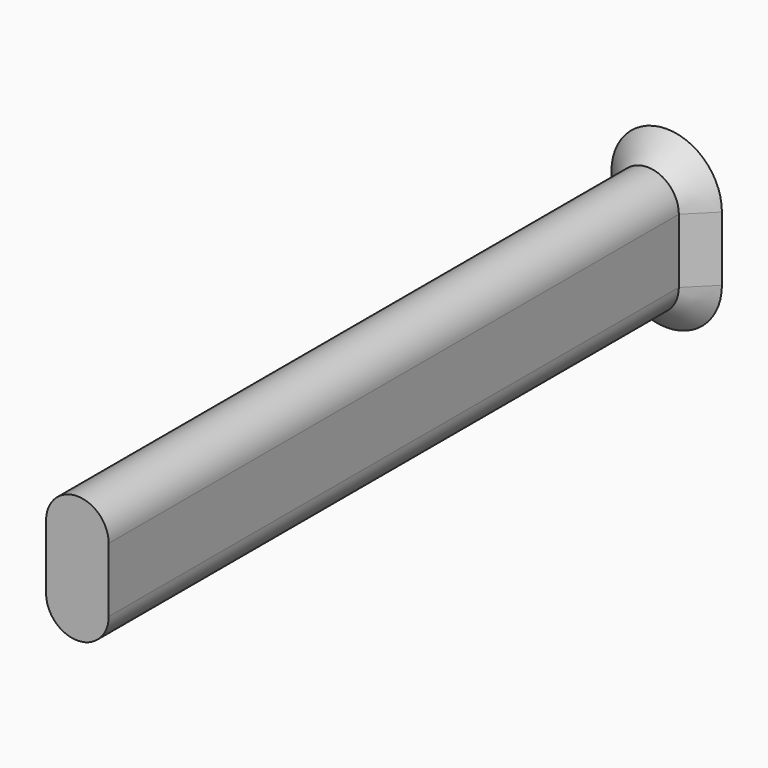
from build123d import *

# Parameters (mm, degrees)
REVOLUTION001_ANGLE = -90
PAD008_DEPTH        = 1.75


with BuildPart() as m3din7991slot001:
    # Clone2D → Revolution001 (revolve)
    with BuildSketch(Plane.XY.offset(1.75)):
        Polygon((0, 0), (3, 0), (1.7, -1.3), (1.7, -40), (0, -40), align=None)
    revolve(axis=Axis((0, 0, 1.75), (0, 1, 0)), revolution_arc=REVOLUTION001_ANGLE)


with BuildPart() as slotquarter:
    # Sketch016 → Pad008 (new body)
    with BuildSketch(Plane.XY):
        Polygon((0, 0), (3, 0), (1.7, -1.3), (1.7, -40), (0, -40), align=None)
    extrude(amount=PAD008_DEPTH)

    # Fusion001: union M3DIN7991Slot001
    add(m3din7991slot001.part)


with BuildPart() as part_mirroring002:
    # Part__Mirroring002: instance of SlotQuarter
    add(slotquarter.part.mirror(Plane(origin=(0, 0, 0), x_dir=(0, -1, 0), z_dir=(1, 0, 0))))


with BuildPart() as fusion002:
    # Fusion002 base: copy of SlotQuarter
    add(slotquarter.part)

    # Fusion002: union Part__Mirroring002
    add(part_mirroring002.part)


with BuildPart() as part_mirroring003:
    # Part__Mirroring003: instance of Fusion002
    add(fusion002.part.mirror(Plane(origin=(0, 0, 0), x_dir=(0, 1, 0), z_dir=(0, 0, 1))))


with BuildPart() as refine_m3din7991boltslot:
    # Fusion003 base: copy of Fusion002
    add(fusion002.part)

    # Fusion003: union Part__Mirroring003
    add(part_mirroring003.part)


solid = refine_m3din7991boltslot.part
